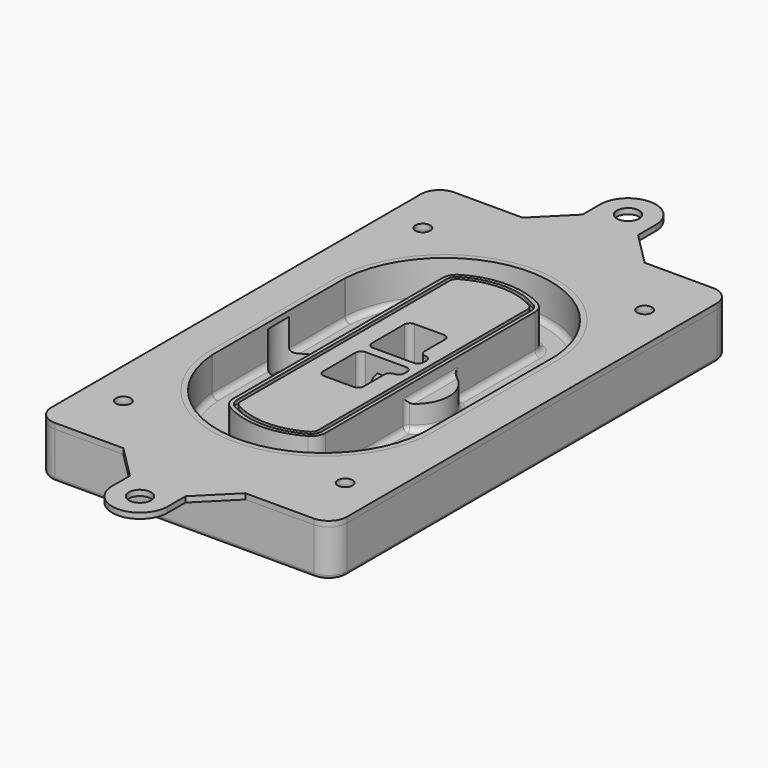
from build123d import *

# Parameters (mm, degrees)
F0_R      = 4
F1_DEPTH  = 25
F2_DEPTH  = 3
F3_DEPTH  = 18
F5_DEPTH  = 21
F6_DEPTH  = 2
F8_DEPTH  = 20
F9_DEPTH  = 16
F10_DEPTH = 25
F7_R      = 6
F7_R_2    = 4
F11_DEPTH = 6
F13_DEPTH = 9
F14_R     = 3
F15_R     = 2
F16_R     = 4
F16_R_2   = 6
F17_DEPTH = 3


with BuildPart() as f1:
    # F0 (on Top) → F1 (new body)
    with BuildSketch(Plane.XY):
        with BuildLine():
            ThreePointArc((-80, -125), (-77.0710678119, -132.0710678119), (-70, -135))
            Line((-70, -135), (70, -135))
            ThreePointArc((70, -135), (77.0710678119, -132.0710678119), (80, -125))
            Line((80, -125), (80, 125))
            ThreePointArc((80, 125), (77.0710678119, 132.0710678119), (70, 135))
            Line((70, 135), (-70, 135))
            ThreePointArc((-70, 135), (-77.0710678119, 132.0710678119), (-80, 125))
            Line((-80, 125), (-80, -125))
        make_face()
        with Locations((-60, -101.25)):
            Circle(F0_R, mode=Mode.SUBTRACT)
        with Locations((60, -101.25)):
            Circle(F0_R, mode=Mode.SUBTRACT)
        with Locations((-60, 101.25)):
            Circle(F0_R, mode=Mode.SUBTRACT)
        with BuildLine():
            ThreePointArc((-64, 44.6627429245), (-63.991269098, 45.1571001106), (-63.9650872818, 45.650840699))
            ThreePointArc((-63.9650872818, 45.650840699), (0, 105.25), (63.9650872818, 45.650840699))
            ThreePointArc((63.9650872818, 45.650840699), (63.991269098, 45.1571001106), (64, 44.6627429245))
            Line((64, 44.6627429245), (64, -44.6627429245))
            ThreePointArc((64, -44.6627429245), (63.991269098, -45.1571001106), (63.9650872818, -45.650840699))
            ThreePointArc((63.9650872818, -45.650840699), (0, -105.25), (-63.9650872818, -45.650840699))
            ThreePointArc((-63.9650872818, -45.650840699), (-63.991269098, -45.1571001106), (-64, -44.6627429245))
            Line((-64, -44.6627429245), (-64, 44.6627429245))
        make_face(mode=Mode.SUBTRACT)
        with Locations((60, 101.25)):
            Circle(F0_R, mode=Mode.SUBTRACT)
        with BuildLine():
            ThreePointArc((63.9650872818, 45.650840699), (0, 105.25), (-63.9650872818, 45.650840699))
            ThreePointArc((-63.9650872818, 45.650840699), (-63.991269098, 45.1571001106), (-64, 44.6627429245))
            Line((-64, 44.6627429245), (-64, -44.6627429245))
            ThreePointArc((-64, -44.6627429245), (-63.991269098, -45.1571001106), (-63.9650872818, -45.650840699))
            ThreePointArc((-63.9650872818, -45.650840699), (0, -105.25), (63.9650872818, -45.650840699))
            ThreePointArc((63.9650872818, -45.650840699), (63.991269098, -45.1571001106), (64, -44.6627429245))
            Line((64, -44.6627429245), (64, 44.6627429245))
            ThreePointArc((64, 44.6627429245), (63.991269098, 45.1571001106), (63.9650872818, 45.650840699))
        make_face()
        with BuildLine():
            Line((-60, -44.6627429245), (-60, 44.6627429245))
            ThreePointArc((-60, 44.6627429245), (-59.9937636414, 45.0158552003), (-59.9750623441, 45.3685270491))
            ThreePointArc((-59.9750623441, 45.3685270491), (0, 101.25), (59.9750623441, 45.3685270491))
            ThreePointArc((59.9750623441, 45.3685270491), (59.9937636414, 45.0158552003), (60, 44.6627429245))
            Line((60, 44.6627429245), (60, -44.6627429245))
            ThreePointArc((60, -44.6627429245), (59.9937636414, -45.0158552003), (59.9750623441, -45.3685270491))
            ThreePointArc((59.9750623441, -45.3685270491), (0, -101.25), (-59.9750623441, -45.3685270491))
            ThreePointArc((-59.9750623441, -45.3685270491), (-59.9937636414, -45.0158552003), (-60, -44.6627429245))
        make_face(mode=Mode.SUBTRACT)
        with BuildLine():
            ThreePointArc((-59.9750623441, 45.3685270491), (-59.9937636414, 45.0158552003), (-60, 44.6627429245))
            Line((-60, 44.6627429245), (-60, -44.6627429245))
            ThreePointArc((-60, -44.6627429245), (-59.9937636414, -45.0158552003), (-59.9750623441, -45.3685270491))
            ThreePointArc((-59.9750623441, -45.3685270491), (0, -101.25), (59.9750623441, -45.3685270491))
            ThreePointArc((59.9750623441, -45.3685270491), (59.9937636414, -45.0158552003), (60, -44.6627429245))
            Line((60, -44.6627429245), (60, 44.6627429245))
            ThreePointArc((60, 44.6627429245), (59.9937636414, 45.0158552003), (59.9750623441, 45.3685270491))
            ThreePointArc((59.9750623441, 45.3685270491), (0, 101.25), (-59.9750623441, 45.3685270491))
        make_face()
        with BuildLine():
            ThreePointArc((56.9825436409, 45.1567918117), (56.995634549, 44.9099215176), (57, 44.6627429245))
            Line((57, 44.6627429245), (57, -44.6627429245))
            ThreePointArc((57, -44.6627429245), (56.995634549, -44.9099215176), (56.9825436409, -45.1567918117))
            ThreePointArc((56.9825436409, -45.1567918117), (0, -98.25), (-56.9825436409, -45.1567918117))
            ThreePointArc((-56.9825436409, -45.1567918117), (-56.995634549, -44.9099215176), (-57, -44.6627429245))
            Line((-57, -44.6627429245), (-57, 44.6627429245))
            ThreePointArc((-57, 44.6627429245), (-56.995634549, 44.9099215176), (-56.9825436409, 45.1567918117))
            ThreePointArc((-56.9825436409, 45.1567918117), (0, 98.25), (56.9825436409, 45.1567918117))
        make_face(mode=Mode.SUBTRACT)
        with BuildLine():
            Line((57, -44.6627429245), (57, 44.6627429245))
            ThreePointArc((57, 44.6627429245), (56.995634549, 44.9099215176), (56.9825436409, 45.1567918117))
            ThreePointArc((56.9825436409, 45.1567918117), (0, 98.25), (-56.9825436409, 45.1567918117))
            ThreePointArc((-56.9825436409, 45.1567918117), (-56.995634549, 44.9099215176), (-57, 44.6627429245))
            Line((-57, 44.6627429245), (-57, -44.6627429245))
            ThreePointArc((-57, -44.6627429245), (-56.995634549, -44.9099215176), (-56.9825436409, -45.1567918117))
            ThreePointArc((-56.9825436409, -45.1567918117), (0, -98.25), (56.9825436409, -45.1567918117))
            ThreePointArc((56.9825436409, -45.1567918117), (56.995634549, -44.9099215176), (57, -44.6627429245))
        make_face()
    extrude(amount=-F1_DEPTH)

    # F0 (on Top) → F2 (join)
    with BuildSketch(Plane.XY):
        with BuildLine():
            ThreePointArc((-59.9750623441, 45.3685270491), (-59.9937636414, 45.0158552003), (-60, 44.6627429245))
            Line((-60, 44.6627429245), (-60, -44.6627429245))
            ThreePointArc((-60, -44.6627429245), (-59.9937636414, -45.0158552003), (-59.9750623441, -45.3685270491))
            ThreePointArc((-59.9750623441, -45.3685270491), (0, -101.25), (59.9750623441, -45.3685270491))
            ThreePointArc((59.9750623441, -45.3685270491), (59.9937636414, -45.0158552003), (60, -44.6627429245))
            Line((60, -44.6627429245), (60, 44.6627429245))
            ThreePointArc((60, 44.6627429245), (59.9937636414, 45.0158552003), (59.9750623441, 45.3685270491))
            ThreePointArc((59.9750623441, 45.3685270491), (0, 101.25), (-59.9750623441, 45.3685270491))
        make_face()
        with BuildLine():
            ThreePointArc((56.9825436409, 45.1567918117), (56.995634549, 44.9099215176), (57, 44.6627429245))
            Line((57, 44.6627429245), (57, -44.6627429245))
            ThreePointArc((57, -44.6627429245), (56.995634549, -44.9099215176), (56.9825436409, -45.1567918117))
            ThreePointArc((56.9825436409, -45.1567918117), (0, -98.25), (-56.9825436409, -45.1567918117))
            ThreePointArc((-56.9825436409, -45.1567918117), (-56.995634549, -44.9099215176), (-57, -44.6627429245))
            Line((-57, -44.6627429245), (-57, 44.6627429245))
            ThreePointArc((-57, 44.6627429245), (-56.995634549, 44.9099215176), (-56.9825436409, 45.1567918117))
            ThreePointArc((-56.9825436409, 45.1567918117), (0, 98.25), (56.9825436409, 45.1567918117))
        make_face(mode=Mode.SUBTRACT)
    extrude(amount=F2_DEPTH)

    # F0 (on Top) → F3 (cut)
    with BuildSketch(Plane.XY):
        with BuildLine():
            Line((57, -44.6627429245), (57, 44.6627429245))
            ThreePointArc((57, 44.6627429245), (56.995634549, 44.9099215176), (56.9825436409, 45.1567918117))
            ThreePointArc((56.9825436409, 45.1567918117), (0, 98.25), (-56.9825436409, 45.1567918117))
            ThreePointArc((-56.9825436409, 45.1567918117), (-56.995634549, 44.9099215176), (-57, 44.6627429245))
            Line((-57, 44.6627429245), (-57, -44.6627429245))
            ThreePointArc((-57, -44.6627429245), (-56.995634549, -44.9099215176), (-56.9825436409, -45.1567918117))
            ThreePointArc((-56.9825436409, -45.1567918117), (0, -98.25), (56.9825436409, -45.1567918117))
            ThreePointArc((56.9825436409, -45.1567918117), (56.995634549, -44.9099215176), (57, -44.6627429245))
        make_face()
    extrude(amount=-F3_DEPTH, mode=Mode.SUBTRACT)

    # F4 (on face) → F5 (join, through all)
    with BuildSketch(Plane.XY.offset(3)):
        with BuildLine():
            ThreePointArc((-25, -70.7141132851), (-23.9239722661, -74.7214325959), (-20.9853479853, -77.6507552274))
            ThreePointArc((-20.9853479853, -77.6507552274), (0, -83.25), (20.9853479853, -77.6507552274))
            ThreePointArc((20.9853479853, -77.6507552274), (23.9239722661, -74.7214325959), (25, -70.7141132851))
            Line((25, -70.7141132851), (25, 70.7141132851))
            ThreePointArc((25, 70.7141132851), (23.9239722661, 74.7214325959), (20.9853479853, 77.6507552274))
            ThreePointArc((20.9853479853, 77.6507552274), (0, 83.25), (-20.9853479853, 77.6507552274))
            ThreePointArc((-20.9853479853, 77.6507552274), (-23.9239722661, 74.7214325959), (-25, 70.7141132851))
            Line((-25, 70.7141132851), (-25, -70.7141132851))
        make_face()
        with BuildLine():
            ThreePointArc((19.989010989, 75.9165947419), (22.1929791996, 73.7196027682), (23, 70.7141132851))
            Line((23, 70.7141132851), (23, -70.7141132851))
            ThreePointArc((23, -70.7141132851), (22.1929791996, -73.7196027682), (19.989010989, -75.9165947419))
            ThreePointArc((19.989010989, -75.9165947419), (0, -81.25), (-19.989010989, -75.9165947419))
            ThreePointArc((-19.989010989, -75.9165947419), (-22.1929791996, -73.7196027682), (-23, -70.7141132851))
            Line((-23, -70.7141132851), (-23, 70.7141132851))
            ThreePointArc((-23, 70.7141132851), (-22.1929791996, 73.7196027682), (-19.989010989, 75.9165947419))
            ThreePointArc((-19.989010989, 75.9165947419), (0, 81.25), (19.989010989, 75.9165947419))
        make_face(mode=Mode.SUBTRACT)
        with BuildLine():
            Line((23, -70.7141132851), (23, 70.7141132851))
            ThreePointArc((23, 70.7141132851), (22.1929791996, 73.7196027682), (19.989010989, 75.9165947419))
            ThreePointArc((19.989010989, 75.9165947419), (0, 81.25), (-19.989010989, 75.9165947419))
            ThreePointArc((-19.989010989, 75.9165947419), (-22.1929791996, 73.7196027682), (-23, 70.7141132851))
            Line((-23, 70.7141132851), (-23, -70.7141132851))
            ThreePointArc((-23, -70.7141132851), (-22.1929791996, -73.7196027682), (-19.989010989, -75.9165947419))
            ThreePointArc((-19.989010989, -75.9165947419), (0, -81.25), (19.989010989, -75.9165947419))
            ThreePointArc((19.989010989, -75.9165947419), (22.1929791996, -73.7196027682), (23, -70.7141132851))
        make_face()
        with BuildLine():
            ThreePointArc((18.9926739927, 74.1824342563), (20.461986133, 72.7177729405), (21, 70.7141132851))
            Line((21, 70.7141132851), (21, -70.7141132851))
            ThreePointArc((21, -70.7141132851), (20.461986133, -72.7177729405), (18.9926739927, -74.1824342563))
            ThreePointArc((18.9926739927, -74.1824342563), (0, -79.25), (-18.9926739927, -74.1824342563))
            ThreePointArc((-18.9926739927, -74.1824342563), (-20.461986133, -72.7177729405), (-21, -70.7141132851))
            Line((-21, -70.7141132851), (-21, 70.7141132851))
            ThreePointArc((-21, 70.7141132851), (-20.461986133, 72.7177729405), (-18.9926739927, 74.1824342563))
            ThreePointArc((-18.9926739927, 74.1824342563), (0, 79.25), (18.9926739927, 74.1824342563))
        make_face(mode=Mode.SUBTRACT)
        with BuildLine():
            Line((21, -70.7141132851), (21, 70.7141132851))
            ThreePointArc((21, 70.7141132851), (20.461986133, 72.7177729405), (18.9926739927, 74.1824342563))
            ThreePointArc((18.9926739927, 74.1824342563), (0, 79.25), (-18.9926739927, 74.1824342563))
            ThreePointArc((-18.9926739927, 74.1824342563), (-20.461986133, 72.7177729405), (-21, 70.7141132851))
            Line((-21, 70.7141132851), (-21, -70.7141132851))
            ThreePointArc((-21, -70.7141132851), (-20.461986133, -72.7177729405), (-18.9926739927, -74.1824342563))
            ThreePointArc((-18.9926739927, -74.1824342563), (0, -79.25), (18.9926739927, -74.1824342563))
            ThreePointArc((18.9926739927, -74.1824342563), (20.461986133, -72.7177729405), (21, -70.7141132851))
        make_face()
        with BuildLine():
            Line((-8, -2.5), (14, -2.5))
            ThreePointArc((14, -2.5), (16.1213203436, -3.3786796564), (17, -5.5))
            Line((17, -5.5), (17, -7.5))
            ThreePointArc((17, -7.5), (16.1213203436, -9.6213203436), (14, -10.5))
            ThreePointArc((14, -10.5), (11.8786796564, -11.3786796564), (11, -13.5))
            Line((11, -13.5), (11, -27.5))
            ThreePointArc((11, -27.5), (10.1213203436, -29.6213203436), (8, -30.5))
            Line((8, -30.5), (-8, -30.5))
            ThreePointArc((-8, -30.5), (-10.1213203436, -29.6213203436), (-11, -27.5))
            Line((-11, -27.5), (-11, -5.5))
            ThreePointArc((-11, -5.5), (-10.1213203436, -3.3786796564), (-8, -2.5))
        make_face(mode=Mode.SUBTRACT)
        with BuildLine():
            ThreePointArc((-8, 2.5), (-10.1213203436, 3.3786796564), (-11, 5.5))
            Line((-11, 5.5), (-11, 27.5))
            ThreePointArc((-11, 27.5), (-10.1213203436, 29.6213203436), (-8, 30.5))
            Line((-8, 30.5), (8, 30.5))
            ThreePointArc((8, 30.5), (10.1213203436, 29.6213203436), (11, 27.5))
            Line((11, 27.5), (11, 13.5))
            ThreePointArc((11, 13.5), (11.8786796564, 11.3786796564), (14, 10.5))
            ThreePointArc((14, 10.5), (16.1213203436, 9.6213203436), (17, 7.5))
            Line((17, 7.5), (17, 5.5))
            ThreePointArc((17, 5.5), (16.1213203436, 3.3786796564), (14, 2.5))
            Line((14, 2.5), (-8, 2.5))
        make_face(mode=Mode.SUBTRACT)
    extrude(amount=-F5_DEPTH)

    # F4 (on face) → F6 (cut)
    with BuildSketch(Plane.XY.offset(3)):
        with BuildLine():
            Line((23, -70.7141132851), (23, 70.7141132851))
            ThreePointArc((23, 70.7141132851), (22.1929791996, 73.7196027682), (19.989010989, 75.9165947419))
            ThreePointArc((19.989010989, 75.9165947419), (0, 81.25), (-19.989010989, 75.9165947419))
            ThreePointArc((-19.989010989, 75.9165947419), (-22.1929791996, 73.7196027682), (-23, 70.7141132851))
            Line((-23, 70.7141132851), (-23, -70.7141132851))
            ThreePointArc((-23, -70.7141132851), (-22.1929791996, -73.7196027682), (-19.989010989, -75.9165947419))
            ThreePointArc((-19.989010989, -75.9165947419), (0, -81.25), (19.989010989, -75.9165947419))
            ThreePointArc((19.989010989, -75.9165947419), (22.1929791996, -73.7196027682), (23, -70.7141132851))
        make_face()
        with BuildLine():
            ThreePointArc((18.9926739927, 74.1824342563), (20.461986133, 72.7177729405), (21, 70.7141132851))
            Line((21, 70.7141132851), (21, -70.7141132851))
            ThreePointArc((21, -70.7141132851), (20.461986133, -72.7177729405), (18.9926739927, -74.1824342563))
            ThreePointArc((18.9926739927, -74.1824342563), (0, -79.25), (-18.9926739927, -74.1824342563))
            ThreePointArc((-18.9926739927, -74.1824342563), (-20.461986133, -72.7177729405), (-21, -70.7141132851))
            Line((-21, -70.7141132851), (-21, 70.7141132851))
            ThreePointArc((-21, 70.7141132851), (-20.461986133, 72.7177729405), (-18.9926739927, 74.1824342563))
            ThreePointArc((-18.9926739927, 74.1824342563), (0, 79.25), (18.9926739927, 74.1824342563))
        make_face(mode=Mode.SUBTRACT)
    extrude(amount=-F6_DEPTH, mode=Mode.SUBTRACT)

    # F7 (on face) → F8 (join)
    with BuildSketch(Plane(origin=(0, 0, -25), x_dir=(1, 0, 0), z_dir=(0, 0, -1))):
        with BuildLine():
            ThreePointArc((3.28842436, 0), (16.7567035675, 13.4682792075), (30.224982775, 0))
            Line((30.224982775, 0), (35.224982775, 0))
            ThreePointArc((35.224982775, 0), (16.7567035675, 18.4682792075), (-1.71157564, 0))
            Line((-1.71157564, 0), (3.28842436, 0))
        make_face()
        with BuildLine():
            Line((3.28842436, 0), (30.224982775, 0))
            ThreePointArc((30.224982775, 0), (16.7567035675, 13.4682792075), (3.28842436, 0))
        make_face()
        with BuildLine():
            ThreePointArc((3.28842436, 0), (16.7567035675, -13.4682792075), (30.224982775, 0))
            Line((30.224982775, 0), (3.28842436, 0))
        make_face()
        with BuildLine():
            Line((35.224982775, 0), (30.224982775, 0))
            ThreePointArc((30.224982775, 0), (16.7567035675, -13.4682792075), (3.28842436, 0))
            Line((3.28842436, 0), (-1.71157564, 0))
            ThreePointArc((-1.71157564, 0), (16.7567035675, -18.4682792075), (35.224982775, 0))
        make_face()
    extrude(amount=-F8_DEPTH)

    # F7 (on face) → F9 (cut)
    with BuildSketch(Plane(origin=(0, 0, -25), x_dir=(1, 0, 0), z_dir=(0, 0, -1))):
        with BuildLine():
            Line((3.28842436, 0), (30.224982775, 0))
            ThreePointArc((30.224982775, 0), (16.7567035675, 13.4682792075), (3.28842436, 0))
        make_face()
        with BuildLine():
            ThreePointArc((3.28842436, 0), (16.7567035675, -13.4682792075), (30.224982775, 0))
            Line((30.224982775, 0), (3.28842436, 0))
        make_face()
    extrude(amount=-F9_DEPTH, mode=Mode.SUBTRACT)

    # F7 (on face) → F10 (cut)
    with BuildSketch(Plane(origin=(0, 0, -25), x_dir=(1, 0, 0), z_dir=(0, 0, -1))):
        with BuildLine():
            Line((-59.0318229325, 0), (-32.0952645175, 0))
            ThreePointArc((-32.0952645175, 0), (-45.563543725, 13.4682792075), (-59.0318229325, 0))
        make_face()
        with BuildLine():
            ThreePointArc((-59.0318229325, 0), (-45.563543725, -13.4682792075), (-32.0952645175, 0))
            Line((-32.0952645175, 0), (-59.0318229325, 0))
        make_face()
    extrude(amount=-F10_DEPTH, mode=Mode.SUBTRACT)

    # F7 (on face) → F11 (cut)
    with BuildSketch(Plane(origin=(0, 0, -25), x_dir=(1, 0, 0), z_dir=(0, 0, -1))):
        with Locations((60, -101.25)):
            Circle(F7_R)
        with Locations((60, -101.25)):
            Circle(F7_R_2, mode=Mode.SUBTRACT)
        with Locations((60, -101.25)):
            Circle(F7_R)
        with Locations((60, -101.25)):
            Circle(F7_R_2, mode=Mode.SUBTRACT)
        with Locations((-60, -101.25)):
            Circle(F7_R)
        with Locations((-60, -101.25)):
            Circle(F7_R_2, mode=Mode.SUBTRACT)
        with Locations((-60, -101.25)):
            Circle(F7_R)
        with Locations((-60, -101.25)):
            Circle(F7_R_2, mode=Mode.SUBTRACT)
        with Locations((-60, 101.25)):
            Circle(F7_R)
        with Locations((-60, 101.25)):
            Circle(F7_R_2, mode=Mode.SUBTRACT)
        with Locations((-60, 101.25)):
            Circle(F7_R)
        with Locations((-60, 101.25)):
            Circle(F7_R_2, mode=Mode.SUBTRACT)
        with Locations((60, 101.25)):
            Circle(F7_R)
        with Locations((60, 101.25)):
            Circle(F7_R_2, mode=Mode.SUBTRACT)
        with Locations((60, 101.25)):
            Circle(F7_R)
        with Locations((60, 101.25)):
            Circle(F7_R_2, mode=Mode.SUBTRACT)
    extrude(amount=-F11_DEPTH, mode=Mode.SUBTRACT)

    # F12 (on face) → F13 (cut, through all)
    with BuildSketch(Plane(origin=(0, 0, -9), x_dir=(1, 0, 0), z_dir=(0, 0, -1))):
        with BuildLine():
            Line((11, 13.5), (11, 17.5481537753))
            ThreePointArc((11, 17.5481537753), (2.5696536419, 11.8239143813), (-1.5415842455, 2.5))
            Line((-1.5415842455, 2.5), (3.5224848595, 2.5))
            ThreePointArc((3.5224848595, 2.5), (6.1857188154, 8.3455872281), (11.2536447004, 12.2927168648))
            ThreePointArc((11.2536447004, 12.2927168648), (11.0640958889, 12.8831798879), (11, 13.5))
        make_face()
        with BuildLine():
            ThreePointArc((11.2536447004, -12.2927168648), (6.1857188154, -8.3455872281), (3.5224848595, -2.5))
            Line((3.5224848595, -2.5), (-1.5415842455, -2.5))
            ThreePointArc((-1.5415842455, -2.5), (2.5696536419, -11.8239143813), (11, -17.5481537753))
            Line((11, -17.5481537753), (11, -13.5))
            ThreePointArc((11, -13.5), (11.0640958889, -12.8831798879), (11.2536447004, -12.2927168648))
        make_face()
        with BuildLine():
            ThreePointArc((11.2536447004, 12.2927168648), (6.1857188154, 8.3455872281), (3.5224848595, 2.5))
            Line((3.5224848595, 2.5), (14, 2.5))
            ThreePointArc((14, 2.5), (16.1213203436, 3.3786796564), (17, 5.5))
            Line((17, 5.5), (17, 7.5))
            ThreePointArc((17, 7.5), (16.1213203436, 9.6213203436), (14, 10.5))
            ThreePointArc((14, 10.5), (12.3601599782, 10.9878446101), (11.2536447004, 12.2927168648))
        make_face()
        with BuildLine():
            Line((14, -2.5), (3.5224848595, -2.5))
            ThreePointArc((3.5224848595, -2.5), (6.1857188154, -8.3455872281), (11.2536447004, -12.2927168648))
            ThreePointArc((11.2536447004, -12.2927168648), (12.3601599782, -10.9878446101), (14, -10.5))
            ThreePointArc((14, -10.5), (16.1213203436, -9.6213203436), (17, -7.5))
            Line((17, -7.5), (17, -5.5))
            ThreePointArc((17, -5.5), (16.1213203436, -3.3786796564), (14, -2.5))
        make_face()
    extrude(amount=F13_DEPTH, mode=Mode.SUBTRACT)

    # F14
    f14_edges = [f1.edges().sort_by_distance(p)[0] for p in [
        (-57, -25.888126, -18),
        (-57, 25.888126, -18),
        (25, 0, -5),
        (25, 16.526506, -11.5),
        (25, -16.526506, -11.5),
        (25, -43.62031, -18),
        (35.224983, 0, -18),
    ]]
    fillet(f14_edges, radius=F14_R)

    # F15
    f15_edges = [f1.edges().sort_by_distance(p)[0] for p in [
        (0, -135, -25),
    ]]
    fillet(f15_edges, radius=F15_R)


with BuildPart() as f17:
    # F16 (on Top) → F17 (new body, through all)
    with BuildSketch(Plane.XY):
        with BuildLine():
            Line((-80, 125), (-80, -125))
            ThreePointArc((-80, -125), (-77.0710678119, -132.0710678119), (-70, -135))
            Line((-70, -135), (-33, -135))
            Line((-33, -135), (33, -135))
            Line((33, -135), (70, -135))
            ThreePointArc((70, -135), (77.0710678119, -132.0710678119), (80, -125))
            Line((80, -125), (80, 125))
            ThreePointArc((80, 125), (77.0710678119, 132.0710678119), (70, 135))
            Line((70, 135), (33, 135))
            Line((33, 135), (-33, 135))
            Line((-33, 135), (-70, 135))
            ThreePointArc((-70, 135), (-77.0710678119, 132.0710678119), (-80, 125))
        make_face()
        with Locations((-60, -101.25)):
            Circle(F16_R, mode=Mode.SUBTRACT)
        with Locations((60, -101.25)):
            Circle(F16_R, mode=Mode.SUBTRACT)
        with Locations((-60, 101.25)):
            Circle(F16_R, mode=Mode.SUBTRACT)
        with BuildLine():
            ThreePointArc((59.9750623441, -45.3685270491), (0, -101.25), (-59.9750623441, -45.3685270491))
            ThreePointArc((-59.9750623441, -45.3685270491), (-59.9937636414, -45.0158552003), (-60, -44.6627429245))
            Line((-60, -44.6627429245), (-60, 44.6627429245))
            ThreePointArc((-60, 44.6627429245), (-59.9937636414, 45.0158552003), (-59.9750623441, 45.3685270491))
            ThreePointArc((-59.9750623441, 45.3685270491), (0, 101.25), (59.9750623441, 45.3685270491))
            ThreePointArc((59.9750623441, 45.3685270491), (59.9937636414, 45.0158552003), (60, 44.6627429245))
            Line((60, 44.6627429245), (60, -44.6627429245))
            ThreePointArc((60, -44.6627429245), (59.9937636414, -45.0158552003), (59.9750623441, -45.3685270491))
        make_face(mode=Mode.SUBTRACT)
        with Locations((60, 101.25)):
            Circle(F16_R, mode=Mode.SUBTRACT)
        with BuildLine():
            Line((-15, 153), (-33, 135))
            Line((-33, 135), (33, 135))
            Line((33, 135), (15, 153))
            Line((15, 153), (15, 165))
            ThreePointArc((15, 165), (0, 180), (-15, 165))
            Line((-15, 165), (-15, 153))
        make_face()
        with Locations((0, 165)):
            Circle(F16_R_2, mode=Mode.SUBTRACT)
        with BuildLine():
            Line((33, -135), (-33, -135))
            Line((-33, -135), (-15, -153))
            Line((-15, -153), (-15, -165))
            ThreePointArc((-15, -165), (0, -180), (15, -165))
            Line((15, -165), (15, -153))
            Line((15, -153), (33, -135))
        make_face()
        with Locations((0, -165)):
            Circle(F16_R_2, mode=Mode.SUBTRACT)
    extrude(amount=F17_DEPTH)


solid = Compound([f1.part, f17.part])
